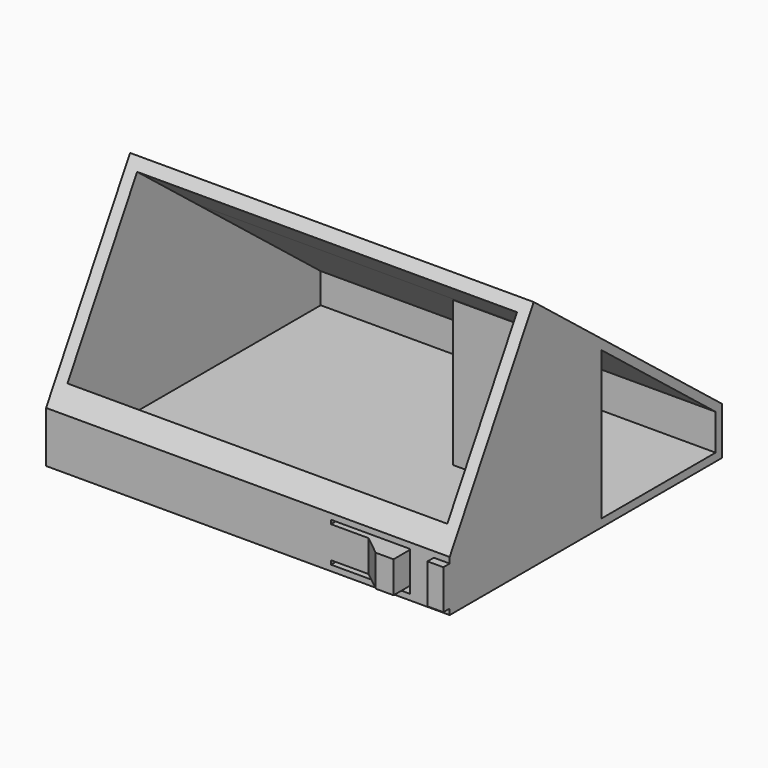
from build123d import *

# Parameters (mm, degrees)
F0_W          = 23
F0_H          = 6.4641016151
F1_DEPTH      = 51
F2_T          = -1.5
F3_DEPTH      = 18
F4_DEPTH      = 18
F5_T          = -1
F6_W          = 9.5
F6_H          = 4
F7_DEPTH      = 3
F8_DEPTH      = 1
F8_DEPTH_BACK = 2
F10_DEPTH     = 25
F6_W_2        = 2
F6_H_2        = 5
F11_DEPTH     = 1


with BuildPart() as f1:
    # F0 (on Right) → F1 (new body)
    with BuildSketch(Plane.YZ):
        with Locations((-7.2324005883, 2.3867851467)):
            Rectangle(F0_W, F0_H)
        Polygon((-5.4682982052, 28.5929351986), (-18.7324005883, 5.6188359543), (4.2675994117, 5.6188359543), (4.2675994117, 20.9285051598), align=None)
        Polygon((4.2675994117, 20.9285051598), (4.2675994117, 5.6188359543), (4.2675994117, -0.8452656608), (24.2675994117, -0.8452656608), (24.2675994117, 5.1838243087), align=None)
    extrude(amount=-F1_DEPTH)

    # F2
    f2_openings = [f1.faces().sort_by_distance(p)[0] for p in [
        (-25.5, -12.100349, 17.105886),
    ]]
    offset(amount=F2_T, openings=f2_openings)

    # F0 (on Right) → F3 (cut)
    with BuildSketch(Plane.YZ):
        Polygon((4.2675994117, 20.9285051598), (4.2675994117, 5.6188359543), (4.2675994117, -0.8452656608), (24.2675994117, -0.8452656608), (24.2675994117, 5.1838243087), align=None)
    extrude(amount=-F3_DEPTH, mode=Mode.SUBTRACT)

    # F6 (on face) → F7 (cut)
    with BuildSketch(Plane.XZ.offset(18.7324005883)):
        Polygon((-5, -0.1132148533), (-5, 4.8867851467), (-15, 4.8867851467), (-15, 4.3867851467), (-5.5, 4.3867851467), (-5.5, 0.3867851467), (-15, 0.3867851467), (-15, -0.1132148533), align=None)
        with Locations((-10.25, 2.3867851467)):
            Rectangle(F6_W, F6_H)
    extrude(amount=-F7_DEPTH, mode=Mode.SUBTRACT)

    # F6 (on face) → F8 (join, two sides)
    with BuildSketch(Plane.XZ.offset(18.7324005883)) as f8_sk:
        with Locations((-10.25, 2.3867851467)):
            Rectangle(F6_W, F6_H)
    extrude(amount=-F8_DEPTH)
    extrude(f8_sk.sketch, amount=F8_DEPTH_BACK)

    # F9 (on face) → F10 (cut)
    with BuildSketch(Plane.XY.offset(4.3867851467)):
        Polygon((-15, -18.7324005883), (-15, -20.7324005883), (-7.75, -20.7324005883), (-10.25, -18.7324005883), align=None)
    extrude(amount=-F10_DEPTH, mode=Mode.SUBTRACT)



with BuildPart() as f4:
    # F0 (on Right) → F4 (new body)
    with BuildSketch(Plane.YZ):
        Polygon((4.2675994117, 20.9285051598), (4.2675994117, 5.6188359543), (4.2675994117, -0.8452656608), (24.2675994117, -0.8452656608), (24.2675994117, 5.1838243087), align=None)
    extrude(amount=-F4_DEPTH)

    # F5
    f5_openings = [f4.faces().sort_by_distance(p)[0] for p in [
        (0, 12.379942, 6.848464),
    ]]
    offset(amount=F5_T, openings=f5_openings)


with BuildPart() as f1_1:
    add(f1.part)

    add(f4.part)  # F11 merges F4
    # F6 (on face) → F11 (join)
    with BuildSketch(Plane.XZ.offset(18.7324005883)):
        with Locations((-1, 2.3867851467)):
            Rectangle(F6_W_2, F6_H_2)
    extrude(amount=F11_DEPTH)


solid = f1_1.part
